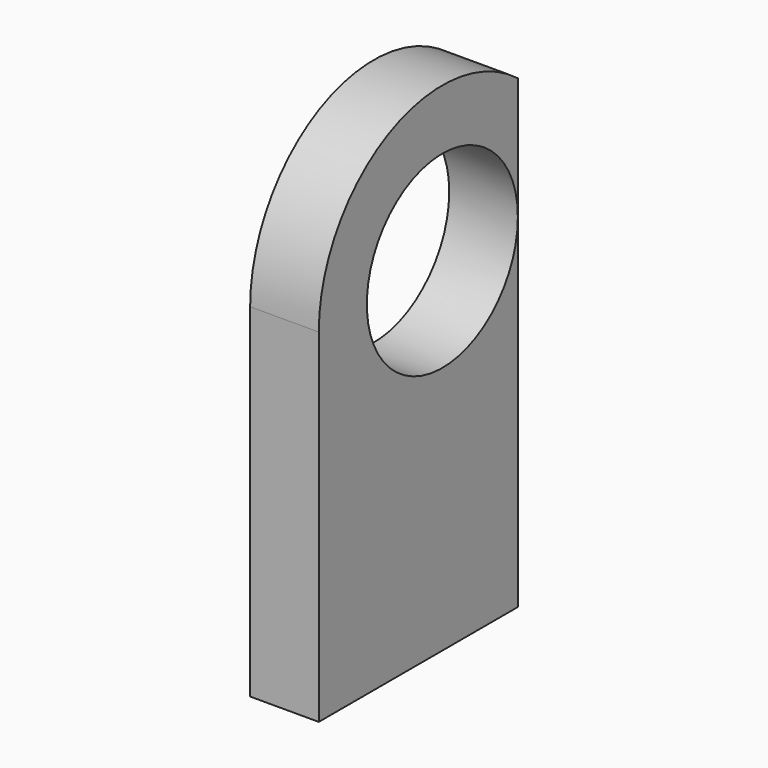
from build123d import *

# Parameters (mm, degrees)
SKETCH092_R      = 2.75
EXTRUDE010_DEPTH = 5
EXTRUDE009_DEPTH = 15
EXTRUDE008_DEPTH = 2


with BuildPart() as extrude010:
    # Sketch092 → Extrude010 (new body)
    with BuildSketch(Plane.YZ.offset(-2)):
        with Locations((2.75, 10)):
            Circle(SKETCH092_R)
    extrude(amount=EXTRUDE010_DEPTH)


with BuildPart() as extrude009:
    # Sketch091 → Extrude009 (new body)
    with BuildSketch(Plane.XY):
        Polygon((0, 5.5), (-1.75, 7.25), (0, 7.25), align=None)
    extrude(amount=EXTRUDE009_DEPTH)


with BuildPart() as cut013:
    # Sketch090 → Extrude008 (new body)
    with BuildSketch(Plane.YZ.offset(-2)):
        with BuildLine():
            Line((-1.75, 0), (7.25, 0))
            Line((7.25, 0), (7.25, 10))
            ThreePointArc((7.25, 10), (2.749999, 14.5), (-1.75, 9.999998))
            Line((-1.75, 0), (-1.75, 9.999998))
        make_face()
    extrude(amount=EXTRUDE008_DEPTH)

    # Cut012: cut Extrude009
    add(extrude009.part, mode=Mode.SUBTRACT)

    # Cut013: cut Extrude010
    add(extrude010.part, mode=Mode.SUBTRACT)


solid = cut013.part
